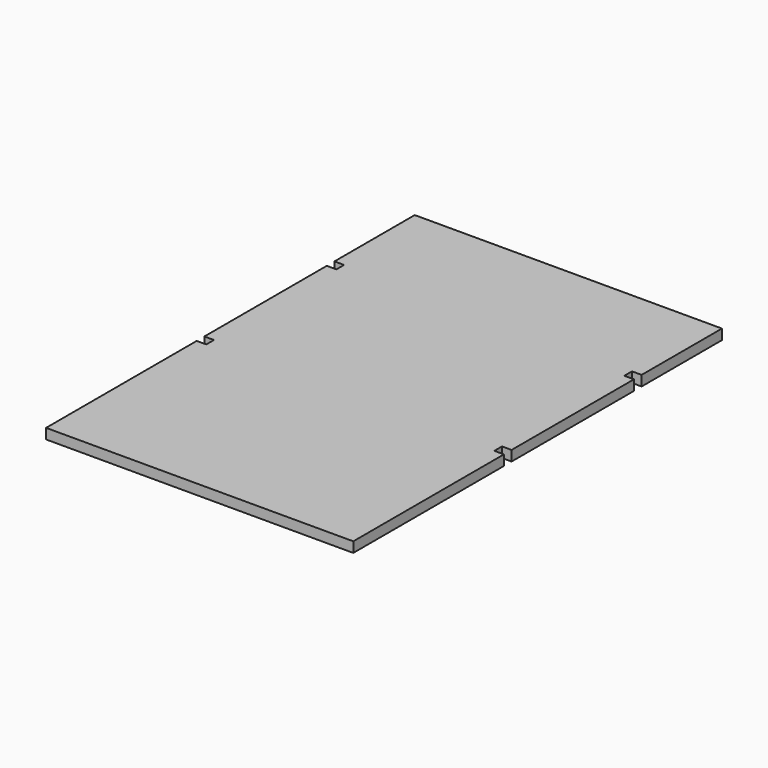
from build123d import *

# Parameters (mm, degrees)
PAD_DEPTH       = 1.6
SKETCH002_W     = 45
SKETCH002_H     = 1.5
POCKET_DEPTH    = 0.3175
SKETCH004_W     = 1.04
SKETCH004_H     = 1.5
SKETCH004_W_2   = 2.54
POCKET002_DEPTH = 0.3175
PAD001_DEPTH    = 1.6
SKETCH003_W     = 45
SKETCH003_H     = 1.5
SKETCH003_W_2   = 1.5
SKETCH003_H_2   = 5.08
POCKET001_DEPTH = 0.3175


with BuildPart() as short_pcb:
    # Sketch → Pad (new body)
    with BuildSketch(Plane.XY):
        Polygon((-53.34, -2.54), (-53.34, 26.87934), (-51.84, 26.87934), (-51.84, 28.37934), (-53.34, 28.37934), (-53.34, 52.27934), (-51.84, 52.27934), (-51.84, 53.77934), (-53.34, 53.77934), (-53.34, 60.96), (-5.34, 60.96), (-5.34, 53.77934), (-6.84, 53.77934), (-6.84, 52.27934), (-5.34, 52.27934), (-5.34, 28.37934), (-6.84, 28.37934), (-6.84, 26.87934), (-5.34, 26.87934), (-5.34, -2.54), align=None)
    extrude(amount=PAD_DEPTH)

    # Sketch002 (on Face21 of Pad) → Pocket (cut)
    with BuildSketch(Plane(origin=(0, 0, 0), x_dir=(1, 0, 0), z_dir=(0, 0, -1))):
        with Locations((-29.34, -53.02934)):
            Rectangle(SKETCH002_W, SKETCH002_H)
        with Locations((-29.34, -27.62934)):
            Rectangle(SKETCH002_W, SKETCH002_H)
    extrude(amount=-POCKET_DEPTH, mode=Mode.SUBTRACT)

    # Sketch004 (on Face5 of Pocket) → Pocket002 (cut)
    with BuildSketch(Plane.XY.offset(1.6)):
        with Locations((-51.32, 53.02934)):
            Rectangle(SKETCH004_W, SKETCH004_H)
        with Locations((-6.61, 40.32934)):
            Rectangle(SKETCH004_W_2, SKETCH004_H)
        with Locations((-52.07, 17.78)):
            Rectangle(SKETCH004_W_2, SKETCH004_H)
        with Locations((-6.61, 17.78)):
            Rectangle(SKETCH004_W_2, SKETCH004_H)
    extrude(amount=-POCKET002_DEPTH, mode=Mode.SUBTRACT)


with BuildPart() as long_pcb:
    # Sketch001 → Pad001 (new body)
    with BuildSketch(Plane.XY):
        Polygon((-53.34, -2.54), (-53.34, 26.87934), (-51.84, 26.87934), (-51.84, 28.37934), (-53.34, 28.37934), (-53.34, 52.27934), (-51.84, 52.27934), (-51.84, 53.77934), (-53.34, 53.77934), (-53.34, 69.46), (-5.34, 69.46), (-5.34, 53.77934), (-6.84, 53.77934), (-6.84, 52.27934), (-5.34, 52.27934), (-5.34, 28.37934), (-6.84, 28.37934), (-6.84, 26.87934), (-5.34, 26.87934), (-5.34, -2.54), align=None)
    extrude(amount=PAD001_DEPTH)

    # Sketch003 (on Face21 of Pad001) → Pocket001 (cut)
    with BuildSketch(Plane(origin=(0, 0, 0), x_dir=(1, 0, 0), z_dir=(0, 0, -1))):
        with Locations((-29.34, -53.02934)):
            Rectangle(SKETCH003_W, SKETCH003_H)
        with Locations((-29.34, -27.62934)):
            Rectangle(SKETCH003_W, SKETCH003_H)
        with Locations((-29.34, -66.92)):
            Rectangle(SKETCH003_W_2, SKETCH003_H_2)
    extrude(amount=-POCKET001_DEPTH, mode=Mode.SUBTRACT)


solid = Compound([short_pcb.part, long_pcb.part])
